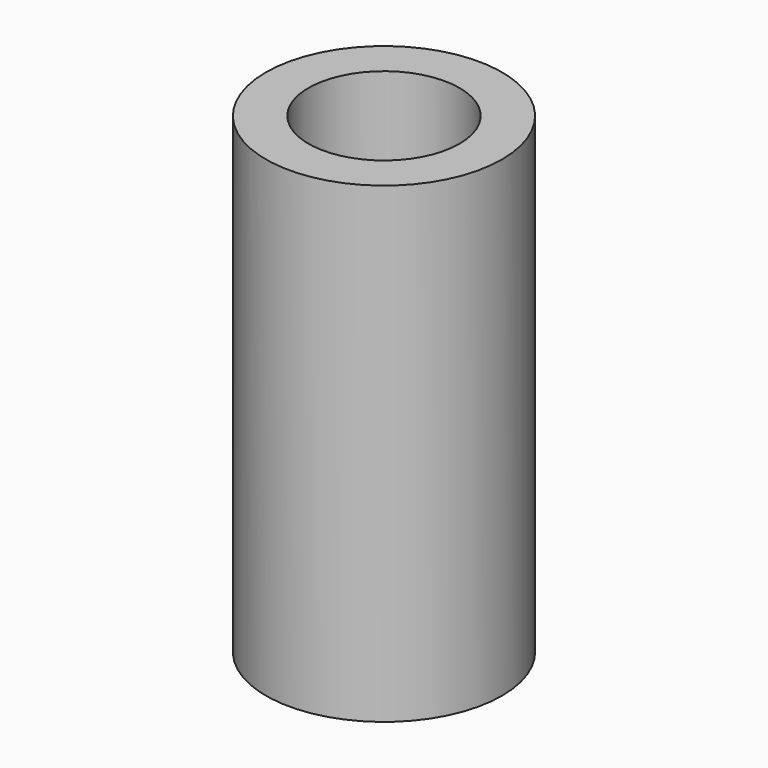
from build123d import *

# Parameters (mm, degrees)
SKETCH059_R  = 1.6
PAD025_DEPTH = 10
SKETCH058_R  = 2.5
PAD024_DEPTH = 10


with BuildPart() as pad025:
    # Sketch059 → Pad025 (new body)
    with BuildSketch(Plane.XY.offset(10)):
        Circle(SKETCH059_R)
    extrude(amount=-PAD025_DEPTH)


with BuildPart() as cut040:
    # Sketch058 → Pad024 (new body)
    with BuildSketch(Plane.XY):
        Circle(SKETCH058_R)
    extrude(amount=PAD024_DEPTH)

    # Cut040: cut Pad025
    add(pad025.part, mode=Mode.SUBTRACT)


with BuildPart() as cut040_1:
    # Cut040 placement: moved
    add(cut040.part.moved(Location((37.5, -75.5, -88))))


solid = cut040_1.part
